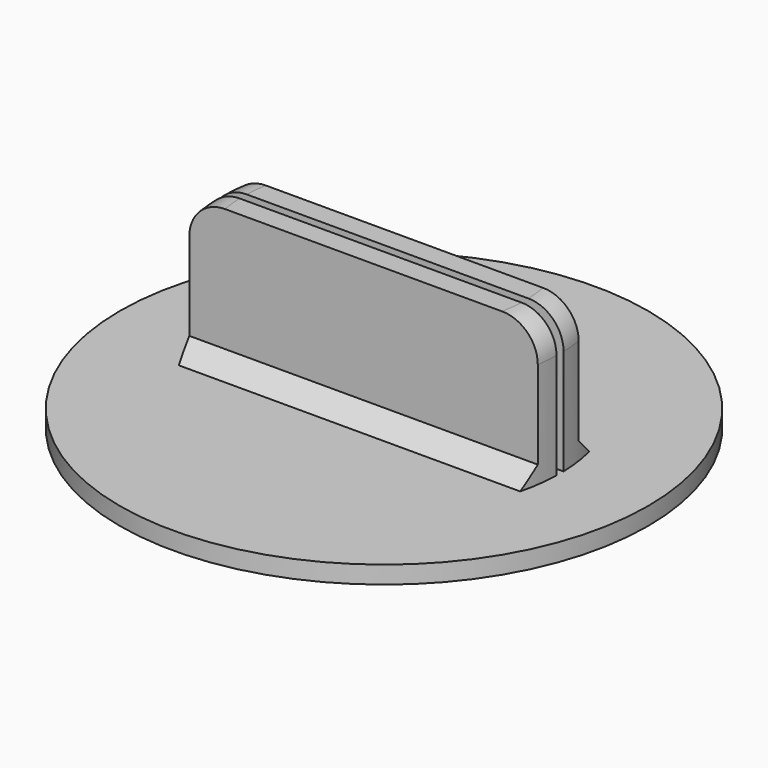
from build123d import *

# Parameters (mm, degrees)
SKETCH_R     = 15
PAD_DEPTH    = 1
PAD001_DEPTH = 8
FILLET_R     = 2
CHAMFER_SIZE = 1


with BuildPart() as part:
    # Sketch → Pad (new body)
    with BuildSketch(Plane.XY):
        Circle(SKETCH_R)
    extrude(amount=-PAD_DEPTH)

    # Sketch001 → Pad001 (join)
    with BuildSketch(Plane.XY):
        with BuildLine():
            Line((-9.894317, 1.45), (9.894317, 1.45))
            ThreePointArc((9.996875, 0.25), (9.963678, 0.851545), (9.894317, 1.45))
            Line((9.996875, 0.25), (-9.996875, 0.25))
            ThreePointArc((-9.894317, 1.45), (-9.963678, 0.851545), (-9.996875, 0.25))
        make_face()
        with BuildLine():
            Line((-9.894317, -1.45), (9.894317, -1.45))
            ThreePointArc((9.894317, -1.45), (9.963678, -0.851545), (9.996875, -0.25))
            Line((9.996875, -0.25), (-9.996875, -0.25))
            ThreePointArc((-9.996875, -0.25), (-9.963678, -0.851545), (-9.894317, -1.45))
        make_face()
    extrude(amount=PAD001_DEPTH)

    # Fillet
    fillet_edges = [part.edges().sort_by_distance(p)[0] for p in [
        (9.963678, -0.851545, 8),
        (-9.963678, -0.851545, 8),
        (-9.963678, 0.851545, 8),
        (9.963678, 0.851545, 8),
    ]]
    fillet(fillet_edges, radius=FILLET_R)

    # Chamfer
    chamfer_edges = [part.edges().sort_by_distance(p)[0] for p in [
        (0, 1.45, 0),
        (0, -1.45, 0),
    ]]
    chamfer(chamfer_edges, length=CHAMFER_SIZE)


solid = part.part
